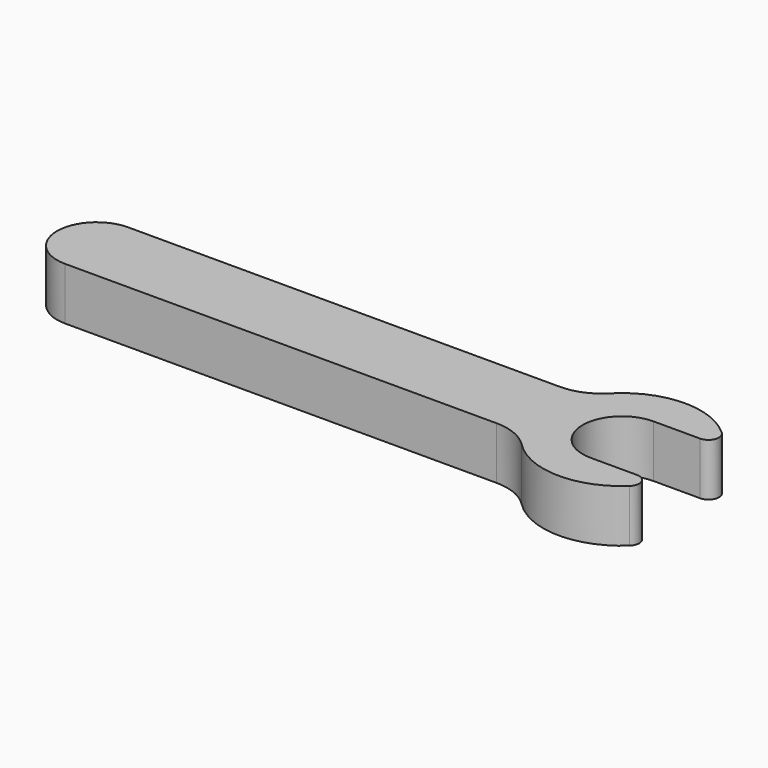
from build123d import *

# Parameters (mm, degrees)
F1_DEPTH = 6.35


with BuildPart() as f1:
    # F0 (on Top) → F1 (new body)
    with BuildSketch(Plane.XY):
        with BuildLine():
            ThreePointArc((0, 4.7752), (-4.7752, 0), (0, -4.7752))
            Line((0, -4.7752), (52.186346, -4.7752))
            ThreePointArc((52.186346, -4.7752), (54.637603, -5.267399), (56.708859, -6.667693))
            ThreePointArc((56.708859, -6.667693), (63.291044, -9.504298), (69.987372, -6.94878))
            ThreePointArc((69.987372, -6.94878), (70.30308, -5.554453), (69.121407, -4.7498))
            Line((69.121407, -4.7498), (63.5, -4.7498))
            ThreePointArc((63.5, -4.7498), (58.7375, 0.0127), (63.5, 4.7752))
            Line((63.5, 4.7752), (69.121407, 4.7752))
            ThreePointArc((69.121407, 4.7752), (70.303119, 5.579953), (69.987216, 6.974326))
            ThreePointArc((69.987216, 6.974326), (63.287412, 9.526007), (56.708281, 6.677589))
            ThreePointArc((56.708281, 6.677589), (54.633693, 5.270081), (52.176034, 4.7752))
            Line((52.176034, 4.7752), (0, 4.7752))
        make_face()
    extrude(amount=F1_DEPTH)


solid = f1.part
